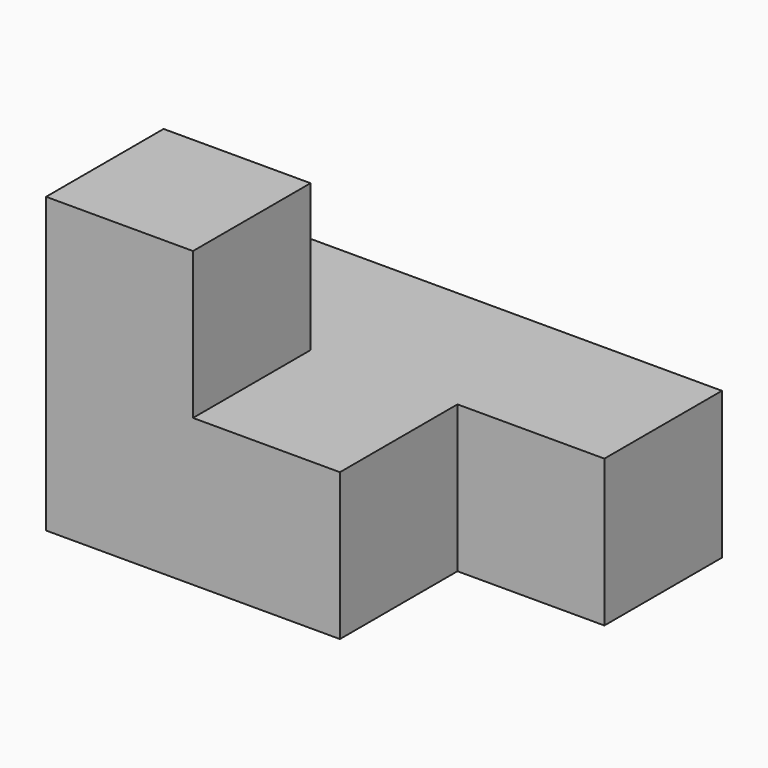
from build123d import *

# Parameters (mm, degrees)
F0_W     = 25.4
F0_H     = 25.4
F1_DEPTH = 25.4
F2_DEPTH = 50.8


with BuildPart() as f1:
    # F0 (on Top) → F1 (new body)
    with BuildSketch(Plane.XY):
        with Locations((-12.7, 38.1)):
            Rectangle(F0_W, F0_H)
        with Locations((12.7, 38.1)):
            Rectangle(F0_W, F0_H)
        with Locations((38.1, 38.1)):
            Rectangle(F0_W, F0_H)
        with Locations((12.7, 12.7)):
            Rectangle(F0_W, F0_H)
    extrude(amount=F1_DEPTH)

    # F0 (on Top) → F2 (join)
    with BuildSketch(Plane.XY):
        with Locations((-12.7, 12.7)):
            Rectangle(F0_W, F0_H)
    extrude(amount=F2_DEPTH)


solid = f1.part
